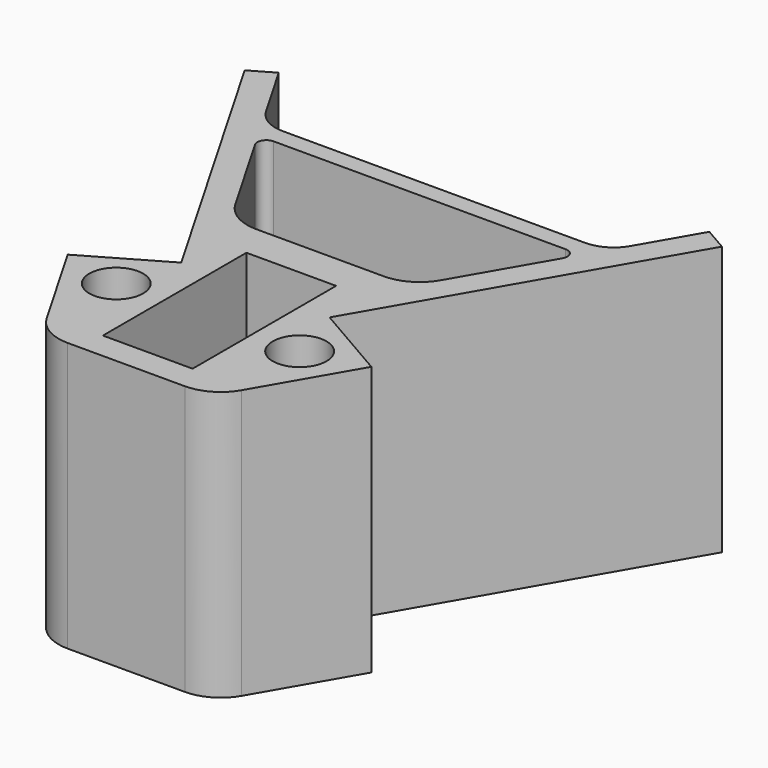
from build123d import *

# Parameters (mm, degrees)
F0_R     = 6
F0_W     = 20
F0_H     = 40
F1_DEPTH = 60


with BuildPart() as f1:
    # F0 (on Top) → F1 (new body)
    with BuildSketch(Plane.XY):
        with BuildLine():
            Line((-48.008848, 52.76), (-53.205, 49.76))
            Line((-53.205, 49.76), (-16.535, -13.754303))
            Line((-16.535, -13.754303), (-33.855508, -23.754303))
            Line((-33.855508, -23.754303), (-21.727863, -44.76))
            ThreePointArc((-21.727863, -44.76), (-18.067609, -48.420254), (-13.067609, -49.76))
            Line((-13.067609, -49.76), (13.067609, -49.76))
            ThreePointArc((13.067609, -49.76), (18.067609, -48.420254), (21.727863, -44.76))
            Line((21.727863, -44.76), (33.855508, -23.754303))
            Line((33.855508, -23.754303), (16.535, -13.754303))
            Line((16.535, -13.754303), (53.205, 49.76))
            Line((53.205, 49.76), (48.008848, 52.76))
            Line((48.008848, 52.76), (40.636085, 39.99))
            ThreePointArc((40.636085, 39.99), (37.707881, 37.061797), (33.707881, 35.99))
            Line((33.707881, 35.99), (-33.707881, 35.99))
            ThreePointArc((-33.707881, 35.99), (-37.707881, 37.061797), (-40.636085, 39.99))
            Line((-40.636085, 39.99), (-48.008848, 52.76))
        make_face()
        with Locations((-20.445254, -26.981544)):
            Circle(F0_R, mode=Mode.SUBTRACT)
        with Locations((20.445254, -26.981544)):
            Circle(F0_R, mode=Mode.SUBTRACT)
        with Locations((0, -23.76)):
            Rectangle(F0_W, F0_H, mode=Mode.SUBTRACT)
        with BuildLine():
            ThreePointArc((22.882564, 9.24), (19.22231, 5.579746), (14.22231, 4.24))
            Line((14.22231, 4.24), (-14.22231, 4.24))
            ThreePointArc((-14.22231, 4.24), (-19.22231, 5.579746), (-22.882564, 9.24))
            Line((-22.882564, 9.24), (-34.285232, 28.99))
            ThreePointArc((-34.285232, 28.99), (-34.285232, 30.99), (-32.553181, 31.99))
            Line((-32.553181, 31.99), (32.553181, 31.99))
            ThreePointArc((32.553181, 31.99), (34.285232, 30.99), (34.285232, 28.99))
            Line((34.285232, 28.99), (22.882564, 9.24))
        make_face(mode=Mode.SUBTRACT)
    extrude(amount=F1_DEPTH)


solid = f1.part
